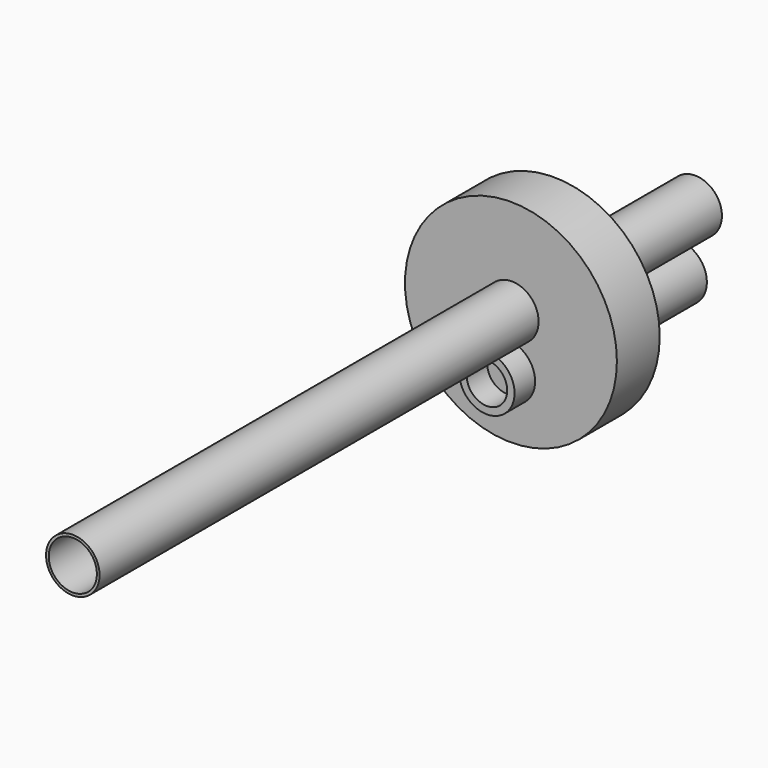
from build123d import *

# Parameters (mm, degrees)
F0_R          = 12.7
F0_R_2        = 11.43
F1_DEPTH      = 285.75
F1_DEPTH_BACK = 83.312
F2_R          = 13.098319
F2_R_2        = 9.608749
F3_DEPTH      = 37.592
F3_DEPTH_BACK = 76.454
F5_R          = 50.265857
F6_DEPTH      = 25.4


with BuildPart() as f1:
    # F0 (on Front) → F1 (new body, two sides)
    with BuildSketch(Plane.XZ) as f1_sk:
        Circle(F0_R)
        Circle(F0_R_2, mode=Mode.SUBTRACT)
    extrude(amount=F1_DEPTH)
    extrude(f1_sk.sketch, amount=-F1_DEPTH_BACK)


with BuildPart() as f3:
    # F2 (on Front) → F3 (new body, two sides)
    with BuildSketch(Plane.XZ) as f3_sk:
        with Locations((-36.086891, -27.278386)):
            Circle(F2_R)
        with Locations((-36.086891, -27.278386)):
            Circle(F2_R_2, mode=Mode.SUBTRACT)
    extrude(amount=F3_DEPTH)
    extrude(f3_sk.sketch, amount=-F3_DEPTH_BACK)


with BuildPart() as f1_1:
    # F4: moved
    add(f1.part.moved(Location((-34.036, 0, -1.778))))


with BuildPart() as f6:
    # F5 (on Front) → F6 (new body)
    with BuildSketch(Plane.XZ):
        with Locations((-34.455627, -6.251627)):
            Circle(F5_R)
    extrude(amount=F6_DEPTH)


solid = Compound([f3.part, f1_1.part, f6.part])
